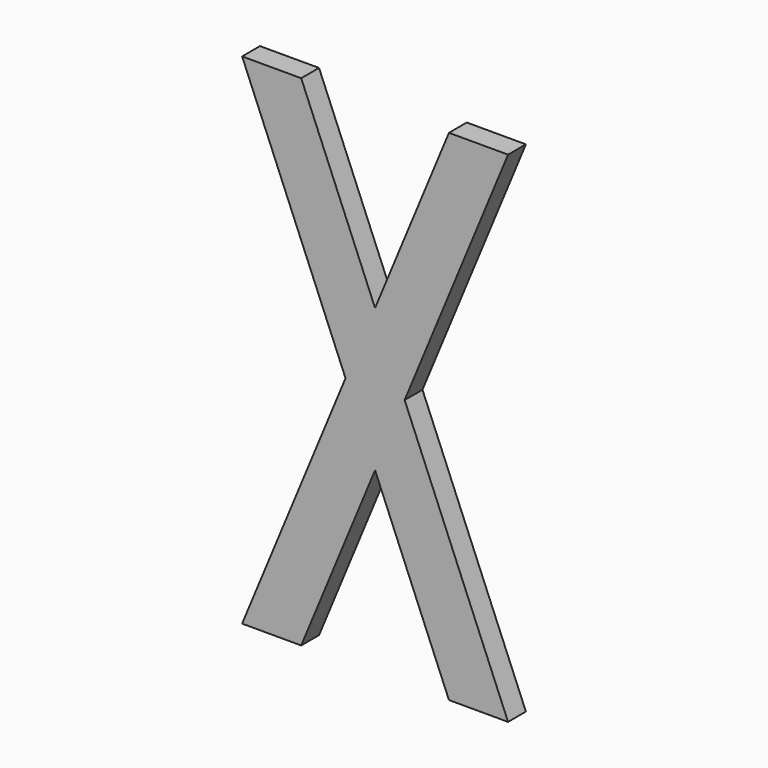
from build123d import *

# Parameters (mm, degrees)
F1_DEPTH = 6.3754
F2_DEPTH = 2.54


with BuildPart() as f1:
    # F0 (on Front) → F1 (new body)
    with BuildSketch(Plane.XZ):
        Polygon((35.56, 54.4186271727), (22.86, 23.7581149306), (27.94, 11.4939100337), (45.72, 54.4186271727), align=None)
        Polygon((22.86, 23.7581149306), (10.16, 54.4186271727), (0, 54.4186271727), (17.78, 11.4939100337), align=None)
        Polygon((27.94, 11.4939100337), (22.86, 23.7581149306), (17.78, 11.4939100337), (22.86, -0.7702948631), align=None)
        Polygon((45.7218143962, -31.4351874453), (27.94, 11.4939100337), (22.86, -0.7702948631), (35.56, -31.4308071053), align=None)
        Polygon((22.86, -0.7702948631), (17.78, 11.4939100337), (0, -31.4308071053), (10.16, -31.4308071053), align=None)
    extrude(amount=F1_DEPTH)

    # F2 (cut): a face of the model
    f2_faces = [f1.faces().sort_by_distance(p)[0] for p in [
        (22.8602675118, -6.3754, 11.4933203606),
    ]]
    extrude(f2_faces, amount=-F2_DEPTH, mode=Mode.SUBTRACT)


solid = f1.part
